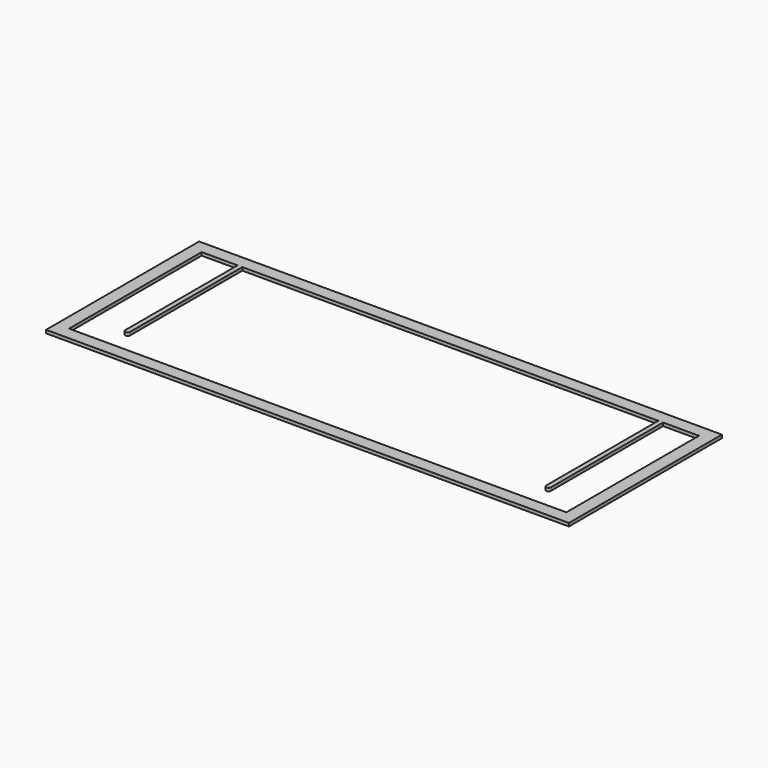
from build123d import *

# Parameters (mm, degrees)
F0_W     = 4165.6
F0_H     = 1524
F1_DEPTH = 25.4


with BuildPart() as f1:
    # F0 (on Top) → F1 (new body)
    with BuildSketch(Plane.XY):
        with Locations((2082.8, -762)):
            Rectangle(F0_W, F0_H)
        Polygon((101.6, -1422.4), (101.6, -101.6), (387.35, -101.6), (425.45, -101.6), (3740.15, -101.6), (3778.25, -101.6), (4064, -101.6), (4064, -1422.4), align=None, mode=Mode.SUBTRACT)
        with BuildLine():
            Line((425.45, -101.6), (387.35, -101.6))
            Line((387.35, -101.6), (387.35, -1219.2))
            ThreePointArc((387.35, -1219.2), (406.4, -1200.15), (425.45, -1219.2))
            Line((425.45, -1219.2), (425.45, -101.6))
        make_face()
        with BuildLine():
            Line((425.45, -1219.2), (387.35, -1219.2))
            ThreePointArc((387.35, -1219.2), (406.4, -1238.25), (425.45, -1219.2))
        make_face()
        with BuildLine():
            ThreePointArc((425.45, -1219.2), (406.4, -1200.15), (387.35, -1219.2))
            Line((387.35, -1219.2), (425.45, -1219.2))
        make_face()
        with BuildLine():
            Line((3778.25, -101.6), (3740.15, -101.6))
            Line((3740.15, -101.6), (3740.15, -1219.2))
            ThreePointArc((3740.15, -1219.2), (3759.2, -1200.15), (3778.25, -1219.2))
            Line((3778.25, -1219.2), (3778.25, -101.6))
        make_face()
        with BuildLine():
            ThreePointArc((3778.25, -1219.2), (3759.2, -1200.15), (3740.15, -1219.2))
            Line((3740.15, -1219.2), (3778.25, -1219.2))
        make_face()
        with BuildLine():
            Line((3778.25, -1219.2), (3740.15, -1219.2))
            ThreePointArc((3740.15, -1219.2), (3759.2, -1238.25), (3778.25, -1219.2))
        make_face()
    extrude(amount=F1_DEPTH)


solid = f1.part
